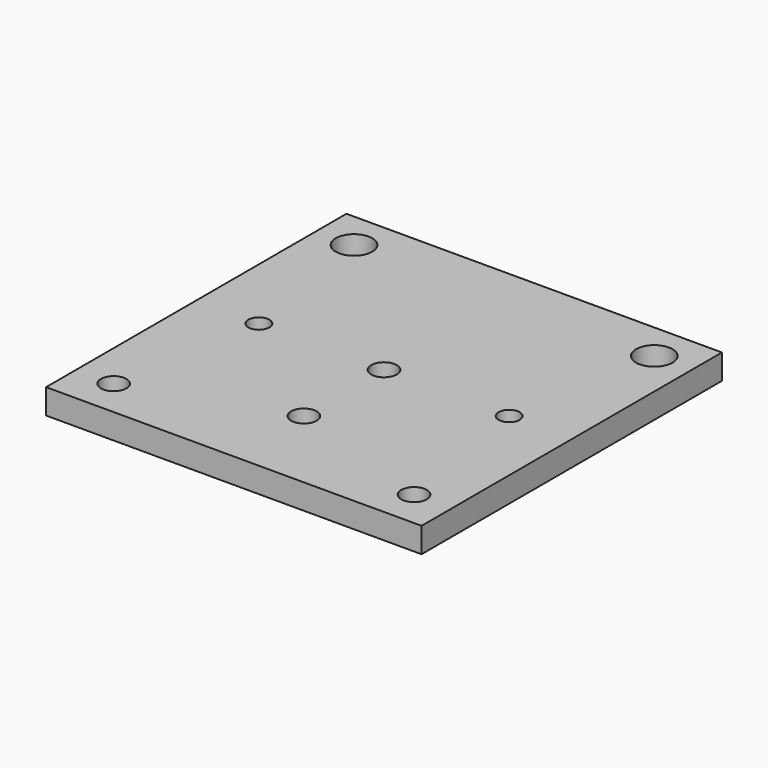
from build123d import *

# Parameters (mm, degrees)
F3_W     = 75
F3_H     = 75
F3_W_2   = 60
F3_H_2   = 60
F4_DEPTH = 5
F5_D     = 5.1
F0_D     = 7.3
F1_D     = 5.1
F7_D     = 4.2


with BuildPart() as f4:
    # F3 (on Top) → F4 (new body)
    with BuildSketch(Plane.XY):
        Rectangle(F3_W, F3_H)
        Rectangle(F3_W_2, F3_H_2, mode=Mode.SUBTRACT)
        Rectangle(F3_W_2, F3_H_2)
    extrude(amount=F4_DEPTH)

    # F5 (through all)
    with Locations(Plane(origin=(0, 0, 0), x_dir=(1, 0, 0), z_dir=(0, 0, -1))):
        with Locations((-30, 30), (30, 30)):
            Hole(F5_D / 2)

    # F0 (through all)
    with Locations(Plane(origin=(0, 0, 0), x_dir=(1, 0, 0), z_dir=(0, 0, -1))):
        with Locations((-30, -30), (30, -30)):
            Hole(F0_D / 2)

    # F1 (through all)
    with Locations(Plane.XY.offset(5)):
        with Locations((0, 0), (0, -20)):
            Hole(F1_D / 2)

    # F7 (through all)
    with Locations(Plane.XY.offset(5)):
        with Locations((25, 0), (-25, 0)):
            Hole(F7_D / 2)


solid = f4.part
